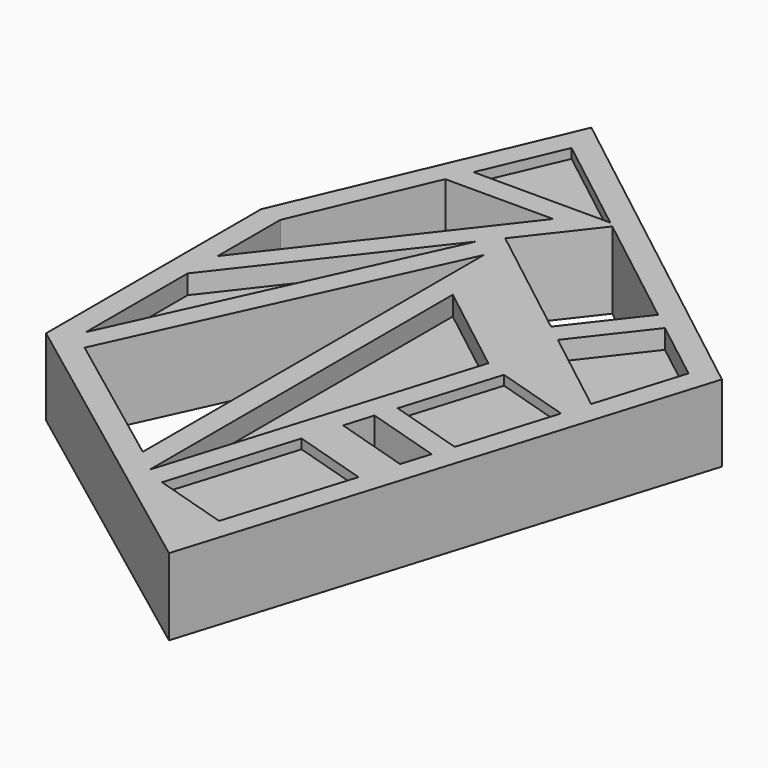
from build123d import *

# Parameters (mm, degrees)
F1_DEPTH = 2.54
F3_DEPTH = 2.541
F4_DEPTH = 0.635
F5_DEPTH = 0.3175


with BuildPart() as f1:
    # F0 (on Top) → F1 (new body)
    with BuildSketch(Plane.XY):
        Polygon((11.43, 8.89), (0, 17.78), (-3.81, 8.89), (-3.81, 0), (6.35, -7.62), align=None)
    extrude(amount=F1_DEPTH)

    # F2 (on face) → F3 (cut, through all)
    with BuildSketch(Plane.XY.offset(2.54)):
        Polygon((-3.048, 6.140546), (2.421456, 13.172704), (-1.145524, 13.172704), (-3.048, 8.733594), align=None)
        Polygon((7.885093, 10.681801), (3.875184, 13.80062), (2.129282, 11.555889), (6.139191, 8.43707), align=None)
        Polygon((2.281741, -3.616306), (2.281741, 10.479143), (-2.531702, -0.006223), align=None)
        Polygon((8.186874, 0.94092), (5.686294, 1.710329), (5.39678, 0.769409), (7.89736, 0), align=None)
    extrude(amount=-F3_DEPTH, mode=Mode.SUBTRACT)

    # F2 (on face) → F4 (cut, symmetric)
    with BuildSketch(Plane.XY.offset(2.54)):
        Polygon((6.155309, 5.825708), (3.043741, 8.245816), (3.043741, -4.286889), align=None)
        Polygon((10.547025, 8.61141), (8.486579, 10.213979), (6.740677, 7.969248), (9.652572, 5.70444), align=None)
        Polygon((-3.048, 0.69555), (1.661459, 10.954402), (-3.048, 4.899384), align=None)
    extrude(amount=F4_DEPTH, both=True, mode=Mode.SUBTRACT)

    # F2 (on face) → F5 (cut, symmetric)
    with BuildSketch(Plane.XY.offset(2.54)):
        Polygon((7.51598, -1.239484), (5.015401, -0.470075), (3.733805, -4.635261), (6.234384, -5.40467), align=None)
        Polygon((9.376229, 4.806324), (6.875649, 5.575733), (5.898628, 2.400413), (8.399207, 1.631004), align=None)
        Polygon((3.70279, 13.934704), (0.311483, 16.572387), (-0.818953, 13.934704), align=None)
    extrude(amount=F5_DEPTH, both=True, mode=Mode.SUBTRACT)


solid = f1.part
